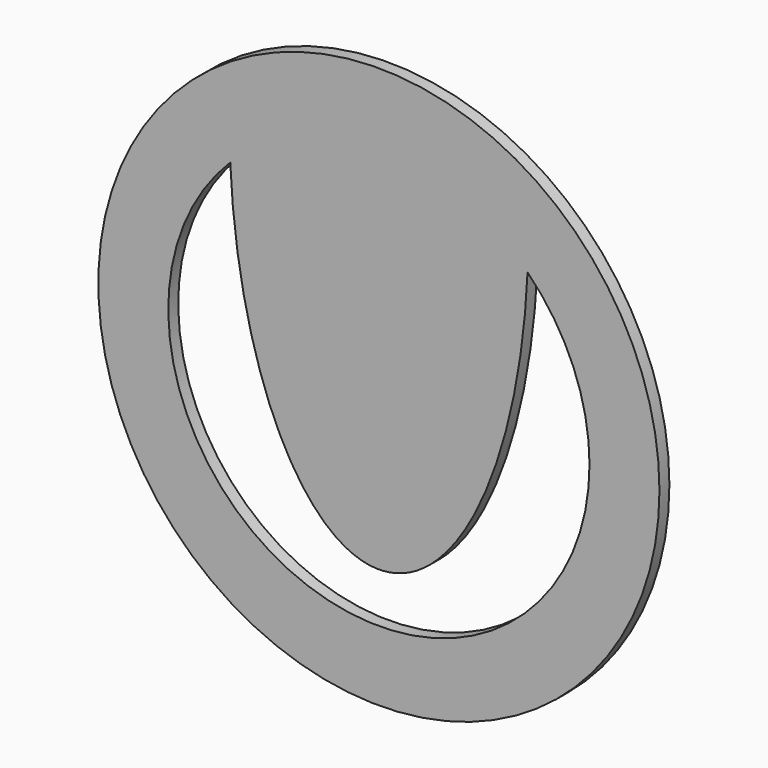
from build123d import *

# Parameters (mm, degrees)
F0_R     = 57.3260811401
F1_DEPTH = 2.54


with BuildPart() as f1:
    # F0 (on Front) → F1 (new body)
    with BuildSketch(Plane.XZ):
        Circle(F0_R)
        with BuildLine():
            ThreePointArc((30.3704472784, 30.4861064774), (39.7408649195, 16.5054661093), (43.0321595558, 0))
            ThreePointArc((43.0321595558, 0), (-16.5054661093, -39.7408649195), (-30.3704472784, 30.4861064774))
            ThreePointArc((-30.3704472784, 30.4861064774), (0, 43.0321595558), (30.3704472784, 30.4861064774))
        make_face(mode=Mode.SUBTRACT)
        with BuildLine():
            add(Edge.make_bspline(
                [(-30.3704472784, 30.4861064774), (-27.5822142985, -32.8505337238), (0, -32.8505337238), (27.5822142985, -32.8505337238), (30.3704472784, 30.4861064774)],
                knots=[4.8136500196, 4.8136500196, 4.8136500196, 6.2831853072, 6.2831853072, 7.7527205948, 7.7527205948, 7.7527205948], degree=2, weights=[1, 0.7419865485, 1, 0.7419865485, 1]))
            ThreePointArc((30.3704472784, 30.4861064774), (0, 43.0321595558), (-30.3704472784, 30.4861064774))
        make_face()
    extrude(amount=F1_DEPTH)


solid = f1.part
